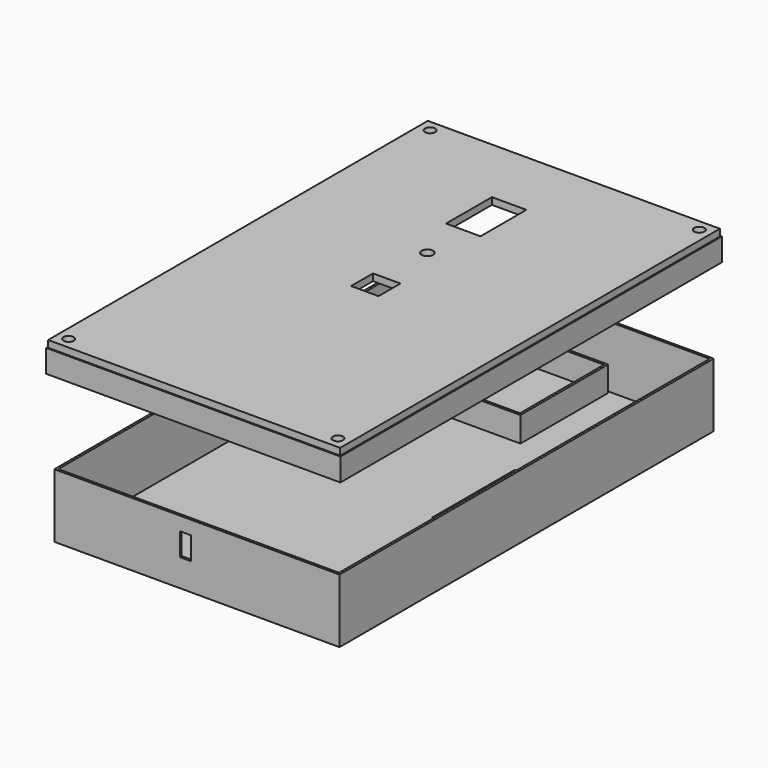
from build123d import *

# Parameters (mm, degrees)
SKETCH_W                = 38
SKETCH_H                = 48
SKETCH_W_2              = 36
SKETCH_H_2              = 46
PAD_DEPTH               = 13
SKETCH001_W             = 120
SKETCH001_H             = 200
PAD001_DEPTH            = 2
SKETCH003_W             = 19.5
SKETCH003_H             = 45
SKETCH003_W_2           = 17.5
SKETCH003_H_2           = 43
PAD002_DEPTH            = 10
SKETCH006_W             = 1
SKETCH006_H             = 5
PAD005_DEPTH            = 10
BODY007_PLACEMENT_ANGLE = 90
SKETCH004_W             = 125
SKETCH004_H             = 205
SKETCH004_W_2           = 123
SKETCH004_H_2           = 203
PAD003_DEPTH            = 28
SKETCH007_W             = 129
SKETCH007_H             = 209
SKETCH007_W_2           = 127
SKETCH007_H_2           = 207
PAD006_DEPTH            = 10
SKETCH011_R             = 2.5
PAD010_DEPTH            = 10
SKETCH010_W             = 12
SKETCH010_H             = 12
PAD009_DEPTH            = 10
SKETCH009_W             = 15.1
SKETCH009_H             = 25.1
PAD008_DEPTH            = 3
SKETCH008_W             = 128
SKETCH008_H             = 208
SKETCH008_R             = 2.236466
PAD007_DEPTH            = 3


with BuildPart() as body:
    # Sketch → Pad (new body)
    with BuildSketch(Plane.XY):
        Rectangle(SKETCH_W, SKETCH_H)
        Rectangle(SKETCH_W_2, SKETCH_H_2, mode=Mode.SUBTRACT)
    extrude(amount=PAD_DEPTH)


with BuildPart() as body_1:
    # Body placement: moved
    add(body.part.moved(Location((0, 75, 0))))


with BuildPart() as flor:
    # Sketch001 → Pad001 (new body)
    with BuildSketch(Plane.XY):
        Rectangle(SKETCH001_W, SKETCH001_H)
    extrude(amount=PAD001_DEPTH)


with BuildPart() as relay:
    # Sketch003 → Pad002 (new body)
    with BuildSketch(Plane.XY):
        Rectangle(SKETCH003_W, SKETCH003_H)
        Rectangle(SKETCH003_W_2, SKETCH003_H_2, mode=Mode.SUBTRACT)
    extrude(amount=PAD002_DEPTH)


with BuildPart() as relay_1:
    # Body004 placement: moved
    add(relay.part.moved(Location((49, 0, 0))))


with BuildPart() as body007:
    # Sketch006 → Pad005 (new body)
    with BuildSketch(Plane.XY):
        Rectangle(SKETCH006_W, SKETCH006_H)
    extrude(amount=PAD005_DEPTH)


with BuildPart() as body007_1:
    # Body007 placement: moved
    add(body007.part.moved(Location((-5, -102, 12))).rotate(Axis((-5, -102, 12), (0, 0, 1)), BODY007_PLACEMENT_ANGLE))


with BuildPart() as cut:
    # Sketch004 → Pad003 (new body)
    with BuildSketch(Plane.XY):
        Rectangle(SKETCH004_W, SKETCH004_H)
        Rectangle(SKETCH004_W_2, SKETCH004_H_2, mode=Mode.SUBTRACT)
    extrude(amount=PAD003_DEPTH)

    # Cut: cut Body007
    add(body007_1.part, mode=Mode.SUBTRACT)


with BuildPart() as box_lid:
    # Sketch007 → Pad006 (new body)
    with BuildSketch(Plane.XY):
        Rectangle(SKETCH007_W, SKETCH007_H)
        Rectangle(SKETCH007_W_2, SKETCH007_H_2, mode=Mode.SUBTRACT)
    extrude(amount=PAD006_DEPTH)


with BuildPart() as box_lid_1:
    # Body008 placement: moved
    add(box_lid.part.moved(Location((0, 0, 65))))


with BuildPart() as body012:
    # Sketch011 → Pad010 (new body)
    with BuildSketch(Plane.XY):
        with Locations((0, 0.5)):
            Circle(SKETCH011_R)
    extrude(amount=PAD010_DEPTH)


with BuildPart() as body012_1:
    # Body012 placement: moved
    add(body012.part.moved(Location((-3, 27, 68))))


with BuildPart() as body011:
    # Sketch010 → Pad009 (new body)
    with BuildSketch(Plane.XY):
        Rectangle(SKETCH010_W, SKETCH010_H)
    extrude(amount=PAD009_DEPTH)


with BuildPart() as body011_1:
    # Body011 placement: moved
    add(body011.part.moved(Location((-2, -2, 68))))


with BuildPart() as obj1:
    # Sketch009 → Pad008 (new body)
    with BuildSketch(Plane.XY):
        Rectangle(SKETCH009_W, SKETCH009_H)
    extrude(amount=PAD008_DEPTH)


with BuildPart() as obj1_1:
    # Body010 placement: moved
    add(obj1.part.moved(Location((-4, 61, 75))))


with BuildPart() as cut003:
    # Sketch008 → Pad007 (new body)
    with BuildSketch(Plane.XY):
        Rectangle(SKETCH008_W, SKETCH008_H)
        with Locations((-59, 99)):
            Circle(SKETCH008_R, mode=Mode.SUBTRACT)
        with Locations((59, 99)):
            Circle(SKETCH008_R, mode=Mode.SUBTRACT)
        with Locations((-59, -99)):
            Circle(SKETCH008_R, mode=Mode.SUBTRACT)
        with Locations((59, -99)):
            Circle(SKETCH008_R, mode=Mode.SUBTRACT)
    extrude(amount=PAD007_DEPTH)


with BuildPart() as cut003_1:
    # Body009 placement: moved
    add(cut003.part.moved(Location((0, 0, 75))))

    # Cut001: cut obj1
    add(obj1_1.part, mode=Mode.SUBTRACT)

    # Cut002: cut Body011
    add(body011_1.part, mode=Mode.SUBTRACT)

    # Cut003: cut Body012
    add(body012_1.part, mode=Mode.SUBTRACT)


solid = Compound([body_1.part, flor.part, relay_1.part, cut.part, box_lid_1.part, cut003_1.part])
